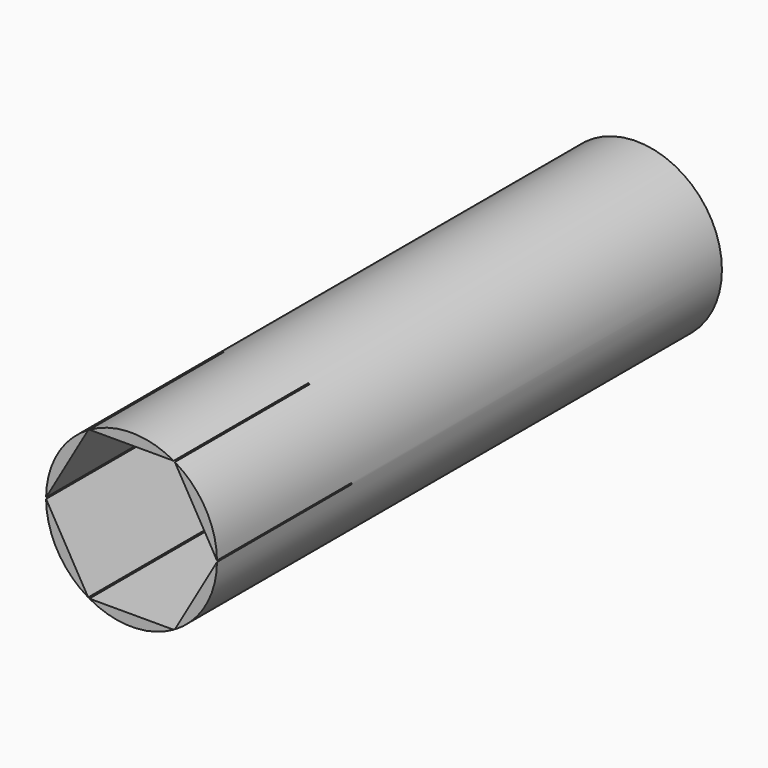
from build123d import *

# Parameters (mm, degrees)
F0_R     = 12.7
F1_DEPTH = 93.8
F3_DEPTH = 25


with BuildPart() as f1:
    # F0 (on Front) → F1 (new body)
    with BuildSketch(Plane.XZ):
        Circle(F0_R)
        Circle(F0_R)
    extrude(amount=F1_DEPTH)

    # F2 (on face) → F3 (cut)
    with BuildSketch(Plane.XZ.offset(93.8)):
        Polygon((6.37972, -11.05), (12.759441, 0), (6.37972, 11.05), (-6.37972, 11.05), (-12.759441, 0), (-6.37972, -11.05), align=None)
    extrude(amount=-F3_DEPTH, mode=Mode.SUBTRACT)


solid = f1.part
